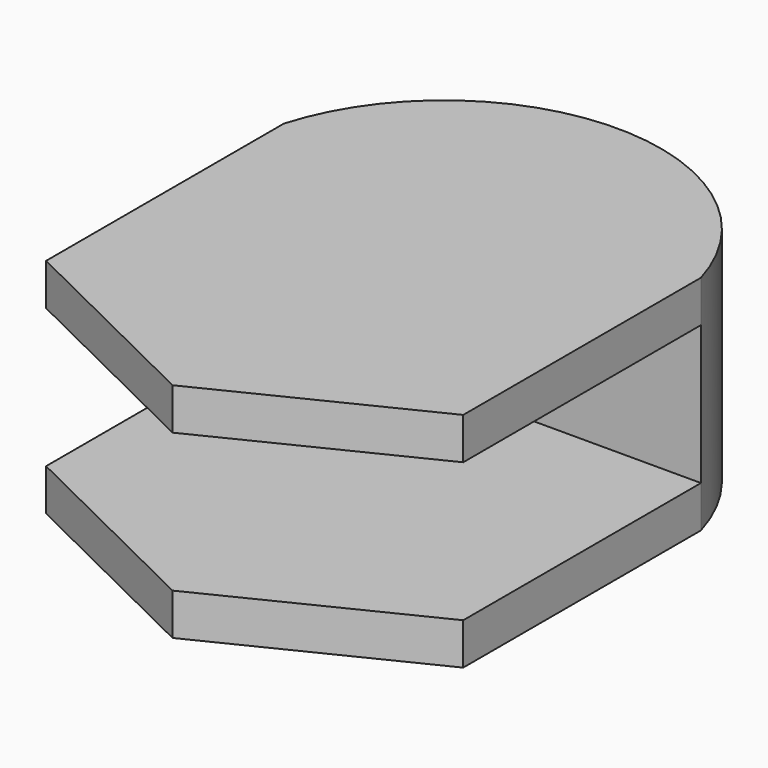
from build123d import *

# Parameters (mm, degrees)
F1_DEPTH = 10.16
F2_W     = 13.56997
F2_H     = 6.35
F2_W_2   = 13.569971
F3_DEPTH = 25.4


with BuildPart() as f1:
    # F0 (on Top) → F1 (new body)
    with BuildSketch(Plane.XY):
        with BuildLine():
            ThreePointArc((9.525, 5.55625), (0, 12.7), (-9.525, 5.55625))
            Line((-9.525, 5.55625), (-9.525, -8.013721))
            Line((-9.525, -8.013721), (0, -12.7))
            Line((0, -12.7), (9.525, -8.013721))
            Line((9.525, -8.013721), (9.525, 5.55625))
        make_face()
    extrude(amount=F1_DEPTH)

    # F2 (on face) → F3 (cut)
    with BuildSketch(Plane(origin=(-9.525, 0, 0), x_dir=(0, -1, 0), z_dir=(-1, 0, 0))):
        with Locations((14.798706, 5.08)):
            Rectangle(F2_W, F2_H)
        with Locations((1.228736, 5.08)):
            Rectangle(F2_W_2, F2_H)
    extrude(amount=-F3_DEPTH, mode=Mode.SUBTRACT)


solid = f1.part
